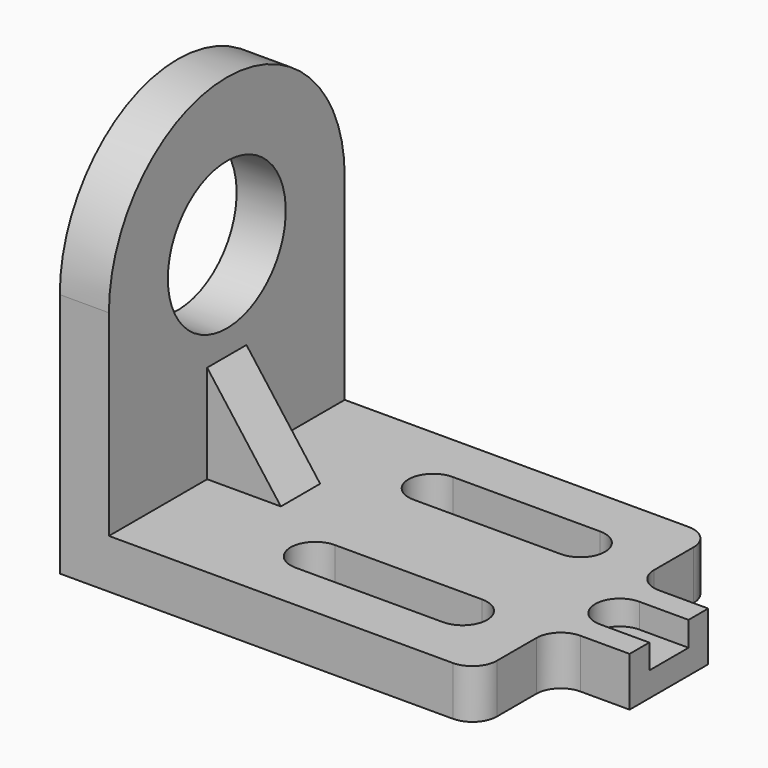
from build123d import *

# Parameters (mm, degrees)
F0_W     = 38.1
F0_H     = 25.4
F1_DEPTH = 25.4
F2_R     = 38.1
F3_DEPTH = 25.4
F4_DEPTH = 12.7
F5_DEPTH = 50.8
F7_DEPTH = 25.4


with BuildPart() as f1:
    # F0 (on Top) → F1 (new body)
    with BuildSketch(Plane.XY):
        with BuildLine():
            Line((0, 152.4), (0, 0))
            Line((0, 0), (203.2, 0))
            ThreePointArc((203.2, 0), (212.180256, 3.719744), (215.9, 12.7))
            Line((215.9, 12.7), (215.9, 38.1))
            ThreePointArc((215.9, 38.1), (219.619744, 47.080256), (228.6, 50.8))
            Line((228.6, 50.8), (254, 50.8))
            Line((254, 50.8), (254, 63.5))
            Line((254, 63.5), (228.6, 63.5))
            ThreePointArc((228.6, 63.5), (215.9, 76.2), (228.6, 88.9))
            Line((228.6, 88.9), (254, 88.9))
            Line((254, 88.9), (254, 101.6))
            Line((254, 101.6), (228.6, 101.6))
            ThreePointArc((228.6, 101.6), (219.619744, 105.319744), (215.9, 114.3))
            Line((215.9, 114.3), (215.9, 139.7))
            ThreePointArc((215.9, 139.7), (212.180256, 148.680256), (203.2, 152.4))
            Line((203.2, 152.4), (0, 152.4))
        make_face()
        with BuildLine():
            ThreePointArc((177.8, 50.8), (190.5, 38.1), (177.8, 25.4))
            Line((177.8, 25.4), (101.6, 25.4))
            ThreePointArc((101.6, 25.4), (88.9, 38.1), (101.6, 50.8))
            Line((101.6, 50.8), (177.8, 50.8))
        make_face(mode=Mode.SUBTRACT)
        with Locations((44.45, 76.2)):
            Rectangle(F0_W, F0_H, mode=Mode.SUBTRACT)
        with BuildLine():
            ThreePointArc((177.8, 127), (190.5, 114.3), (177.8, 101.6))
            Line((177.8, 101.6), (101.6, 101.6))
            ThreePointArc((101.6, 101.6), (88.9, 114.3), (101.6, 127))
            Line((101.6, 127), (177.8, 127))
        make_face(mode=Mode.SUBTRACT)
        with BuildLine():
            Line((228.6, 63.5), (254, 63.5))
            Line((254, 63.5), (254, 88.9))
            Line((254, 88.9), (228.6, 88.9))
            ThreePointArc((228.6, 88.9), (215.9, 76.2), (228.6, 63.5))
        make_face()
        with Locations((44.45, 76.2)):
            Rectangle(F0_W, F0_H)
    extrude(amount=-F1_DEPTH)

    # F2 (on face) → F3 (join)
    with BuildSketch(Plane(origin=(0, 0, 0), x_dir=(0, -1, 0), z_dir=(-1, 0, 0))):
        with BuildLine():
            Line((-152.4, 101.6), (-152.4, 0))
            Line((-152.4, 0), (0, 0))
            Line((0, 0), (0, 101.6))
            ThreePointArc((0, 101.6), (-76.2, 177.8), (-152.4, 101.6))
        make_face()
        with Locations((-76.2, 101.6)):
            Circle(F2_R, mode=Mode.SUBTRACT)
    extrude(amount=-F3_DEPTH)

    # F0 (on Top) → F4 (cut)
    with BuildSketch(Plane.XY):
        with BuildLine():
            Line((228.6, 63.5), (254, 63.5))
            Line((254, 63.5), (254, 88.9))
            Line((254, 88.9), (228.6, 88.9))
            ThreePointArc((228.6, 88.9), (215.9, 76.2), (228.6, 63.5))
        make_face()
    extrude(amount=-F4_DEPTH, mode=Mode.SUBTRACT)

    # F0 (on Top) → F5 (join)
    with BuildSketch(Plane.XY):
        with Locations((44.45, 76.2)):
            Rectangle(F0_W, F0_H)
    extrude(amount=F5_DEPTH)

    # F6 (on face) → F7 (cut)
    with BuildSketch(Plane.XZ.offset(-63.5)):
        Polygon((25.4, 50.8), (63.5, 0), (63.5, 50.8), align=None)
    extrude(amount=-F7_DEPTH, mode=Mode.SUBTRACT)


solid = f1.part
